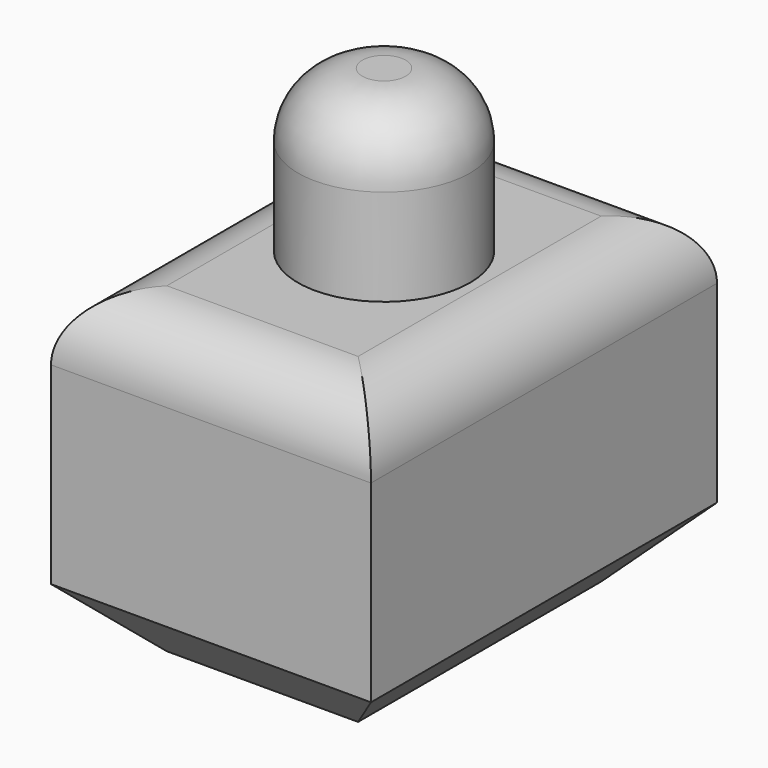
from build123d import *

# Parameters (mm, degrees)
F0_R     = 6.793202
F1_DEPTH = 12.7
F0_W     = 25.258934
F0_H     = 34.146361
F2_DEPTH = 25.4
F3_R     = 5.08
F3_2_R   = 5.08
F4_SIZE  = 5.08


with BuildPart() as f1:
    # F0 (on Top) → F1 (new body)
    with BuildSketch(Plane.XY):
        with Locations((12.629467, 17.073181)):
            Circle(F0_R)
    extrude(amount=F1_DEPTH)

    # F3
    f3_edges = [f1.edges().sort_by_distance(p)[0] for p in [
        (5.836266, 17.073181, 12.7),
    ]]
    fillet(f3_edges, radius=F3_R)


with BuildPart() as f2:
    # F0 (on Top) → F2 (new body)
    with BuildSketch(Plane.XY):
        with Locations((12.629467, 17.07318)):
            Rectangle(F0_W, F0_H)
        with Locations((12.629467, 17.073181)):
            Circle(F0_R, mode=Mode.SUBTRACT)
    extrude(amount=-F2_DEPTH)

    # F3#2
    f3_2_edges = [f2.edges().sort_by_distance(p)[0] for p in [
        (25.258934, 17.073181, 0),
        (12.629467, 34.146361, 0),
        (0, 17.073181, 0),
        (12.629467, 0, 0),
    ]]
    fillet(f3_2_edges, radius=F3_2_R)

    # F4
    f4_edges = [f2.edges().sort_by_distance(p)[0] for p in [
        (0, 17.073181, -25.4),
        (12.629467, 34.146361, -25.4),
        (25.258934, 17.073181, -25.4),
        (12.629467, 0, -25.4),
    ]]
    chamfer(f4_edges, length=F4_SIZE)


solid = Compound([f1.part, f2.part])
